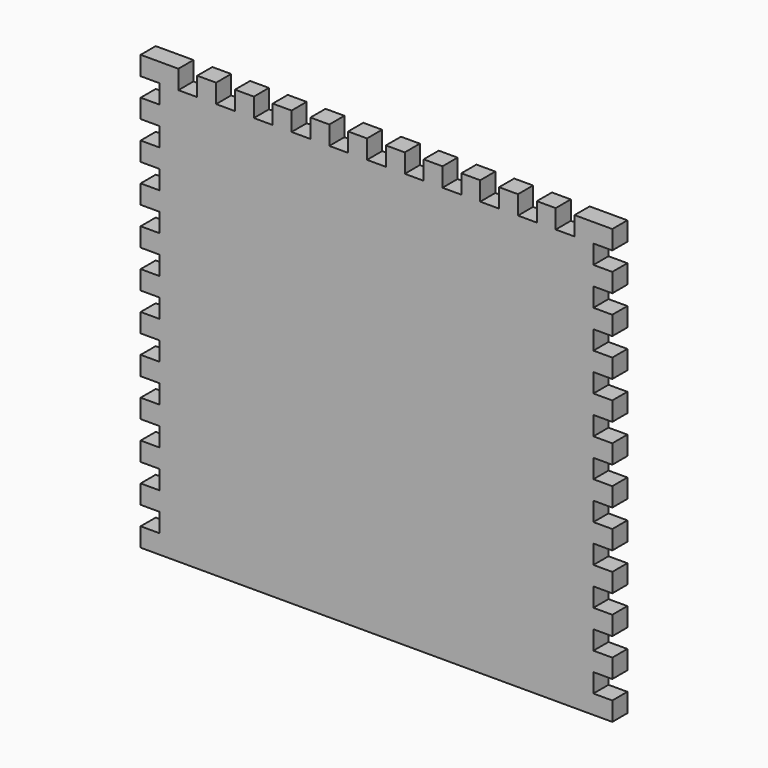
from build123d import *

# Parameters (mm, degrees)
F0_W     = 12.7
F0_H     = 12.7
F1_DEPTH = 12.7


with BuildPart() as f1:
    # F0 (on Front) → F1 (new body)
    with BuildSketch(Plane.XZ):
        with Locations((-131.354641, 182.858769)):
            Rectangle(F0_W, F0_H)
        with Locations((-131.354641, 157.458769)):
            Rectangle(F0_W, F0_H)
        Polygon((-112.304641, 189.208769), (-125.004641, 189.208769), (-125.004641, 176.508769), (-125.004641, 163.808769), (-125.004641, 151.108769), (-125.004641, 138.408769), (-125.004641, 125.708769), (-125.004641, 113.008769), (-125.004641, 100.308769), (-125.004641, 87.608769), (-125.004641, 74.908769), (-125.004641, 62.208769), (-125.004641, 49.508769), (-125.004641, 36.808769), (-125.004641, 24.108769), (-125.004641, 11.408769), (-125.004641, -1.291231), (-125.004641, -13.991231), (-125.004641, -26.691231), (-125.004641, -39.391231), (-125.004641, -52.091231), (-125.004641, -64.791231), (-125.004641, -77.491231), (-125.004641, -90.191231), (-125.004641, -102.891231), (167.095359, -102.891231), (167.095359, -90.191231), (167.095359, -77.491231), (167.095359, -64.791231), (167.095359, -52.091231), (167.095359, -39.391231), (167.095359, -26.691231), (167.095359, -13.991231), (167.095359, -1.291231), (167.095359, 11.408769), (167.095359, 24.108769), (167.095359, 36.808769), (167.095359, 49.508769), (167.095359, 62.208769), (167.095359, 74.908769), (167.095359, 87.608769), (167.095359, 100.308769), (167.095359, 113.008769), (167.095359, 125.708769), (167.095359, 138.408769), (167.095359, 151.108769), (167.095359, 163.808769), (167.095359, 176.508769), (167.095359, 189.208769), (154.395359, 189.208769), (154.395359, 176.508769), (141.695359, 176.508769), (141.695359, 189.208769), (128.995359, 189.208769), (128.995359, 176.508769), (116.295359, 176.508769), (116.295359, 189.208769), (103.595359, 189.208769), (103.595359, 176.508769), (90.895359, 176.508769), (90.895359, 189.208769), (78.195359, 189.208769), (78.195359, 176.508769), (65.495359, 176.508769), (65.495359, 189.208769), (52.795359, 189.208769), (52.795359, 176.508769), (40.095359, 176.508769), (40.095359, 189.208769), (27.395359, 189.208769), (27.395359, 176.508769), (14.695359, 176.508769), (14.695359, 189.208769), (1.995359, 189.208769), (1.995359, 176.508769), (-10.704641, 176.508769), (-10.704641, 189.208769), (-23.404641, 189.208769), (-23.404641, 176.508769), (-36.104641, 176.508769), (-36.104641, 189.208769), (-48.804641, 189.208769), (-48.804641, 176.508769), (-61.504641, 176.508769), (-61.504641, 189.208769), (-74.204641, 189.208769), (-74.204641, 176.508769), (-86.904641, 176.508769), (-86.904641, 189.208769), (-99.604641, 189.208769), (-99.604641, 176.508769), (-112.304641, 176.508769), align=None)
        with Locations((173.445359, 182.858769)):
            Rectangle(F0_W, F0_H)
        with Locations((173.445359, 157.458769)):
            Rectangle(F0_W, F0_H)
        with Locations((173.445359, 132.058769)):
            Rectangle(F0_W, F0_H)
        with Locations((173.445359, 106.658769)):
            Rectangle(F0_W, F0_H)
        with Locations((173.445359, 81.258769)):
            Rectangle(F0_W, F0_H)
        with Locations((173.445359, 55.858769)):
            Rectangle(F0_W, F0_H)
        with Locations((173.445359, 30.458769)):
            Rectangle(F0_W, F0_H)
        with Locations((173.445359, 5.058769)):
            Rectangle(F0_W, F0_H)
        with Locations((173.445359, -20.341231)):
            Rectangle(F0_W, F0_H)
        with Locations((173.445359, -45.741231)):
            Rectangle(F0_W, F0_H)
        with Locations((173.445359, -71.141231)):
            Rectangle(F0_W, F0_H)
        with Locations((173.445359, -96.541231)):
            Rectangle(F0_W, F0_H)
        with Locations((-131.354641, -96.541231)):
            Rectangle(F0_W, F0_H)
        with Locations((-131.354641, -71.141231)):
            Rectangle(F0_W, F0_H)
        with Locations((-131.354641, -45.741231)):
            Rectangle(F0_W, F0_H)
        with Locations((-131.354641, -20.341231)):
            Rectangle(F0_W, F0_H)
        with Locations((-131.354641, 5.058769)):
            Rectangle(F0_W, F0_H)
        with Locations((-131.354641, 30.458769)):
            Rectangle(F0_W, F0_H)
        with Locations((-131.354641, 55.858769)):
            Rectangle(F0_W, F0_H)
        with Locations((-131.354641, 81.258769)):
            Rectangle(F0_W, F0_H)
        with Locations((-131.354641, 106.658769)):
            Rectangle(F0_W, F0_H)
        with Locations((-131.354641, 132.058769)):
            Rectangle(F0_W, F0_H)
    extrude(amount=F1_DEPTH)


with BuildPart() as f2_1:
    # F2: copy of F1
    add(f1.part)


solid = f2_1.part
